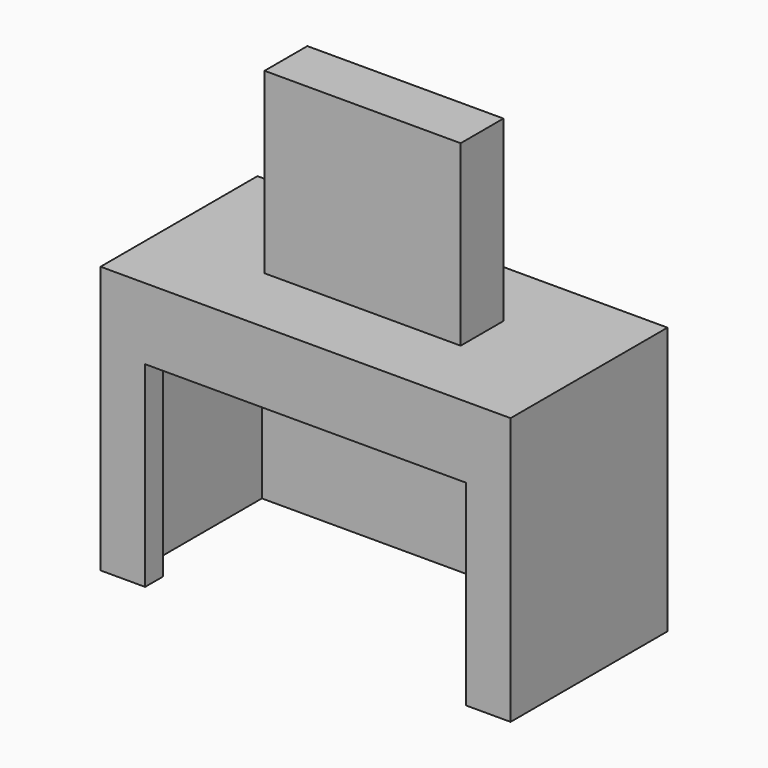
from build123d import *

# Parameters (mm, degrees)
F0_W     = 46
F0_H     = 22
F1_DEPTH = 30
F2_W     = 41
F2_H     = 17
F3_DEPTH = 22
F4_W     = 36
F4_H     = 22
F5_DEPTH = 4
F6_W     = 22
F6_H     = 6
F7_DEPTH = 20


with BuildPart() as f1:
    # F0 (on Top) → F1 (new body)
    with BuildSketch(Plane.XY):
        Rectangle(F0_W, F0_H)
    extrude(amount=F1_DEPTH)

    # F2 (on face) → F3 (cut)
    with BuildSketch(Plane(origin=(0, 0, 0), x_dir=(1, 0, 0), z_dir=(0, 0, -1))):
        Rectangle(F2_W, F2_H)
    extrude(amount=-F3_DEPTH, mode=Mode.SUBTRACT)

    # F4 (on face) → F5 (cut)
    with BuildSketch(Plane.XZ.offset(11)):
        with Locations((0, 11)):
            Rectangle(F4_W, F4_H)
    extrude(amount=-F5_DEPTH, mode=Mode.SUBTRACT)

    # F6 (on face) → F7 (join)
    with BuildSketch(Plane.XY.offset(30)):
        Rectangle(F6_W, F6_H)
    extrude(amount=F7_DEPTH)


solid = f1.part
